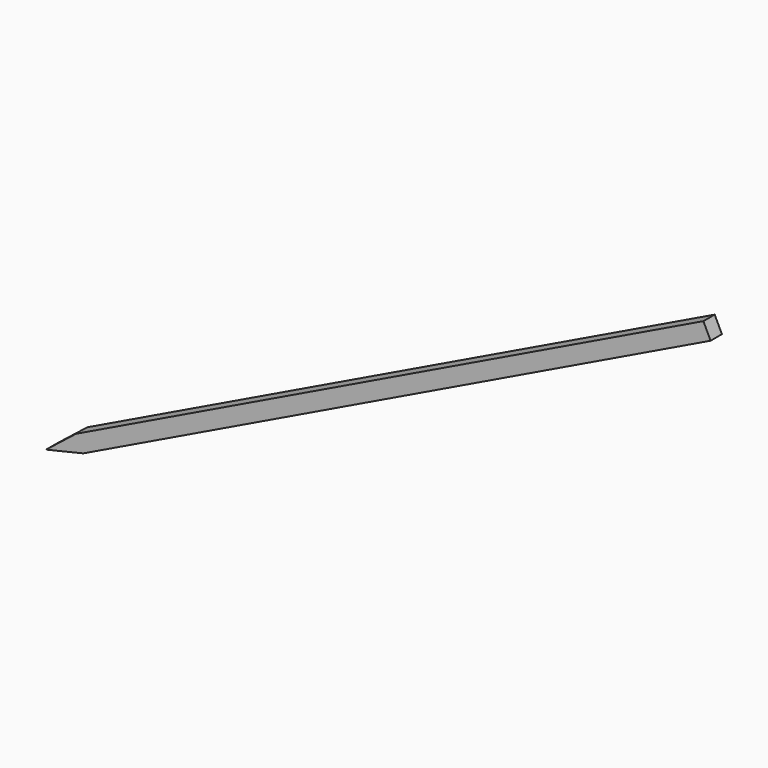
from build123d import *

# Parameters (mm, degrees)
F1_DEPTH = 2.286
F2_DEPTH = 2.286


with BuildPart() as f1:
    # F0 (on Front) → F1 (new body)
    with BuildSketch(Plane.XZ):
        Polygon((39.280557, 15.288984), (38.11859, 17.693268), (-63.09732, -31.223414), (-67.924149, -35.039101), (-61.935353, -33.627699), align=None)
    extrude(amount=F1_DEPTH)

    # F1_face (on face) → F2 (join)
    with BuildSketch(Plane(origin=(-13.27206, -2.286, -8.626268), x_dir=(1, 0, 0), z_dir=(0, -1, 0))):
        Polygon((-48.663293, -25.001431), (52.552618, 23.915252), (51.39065, 26.319536), (-49.82526, -22.597146), (-54.652089, -26.412833), align=None)
    extrude(amount=-F2_DEPTH)


solid = f1.part
